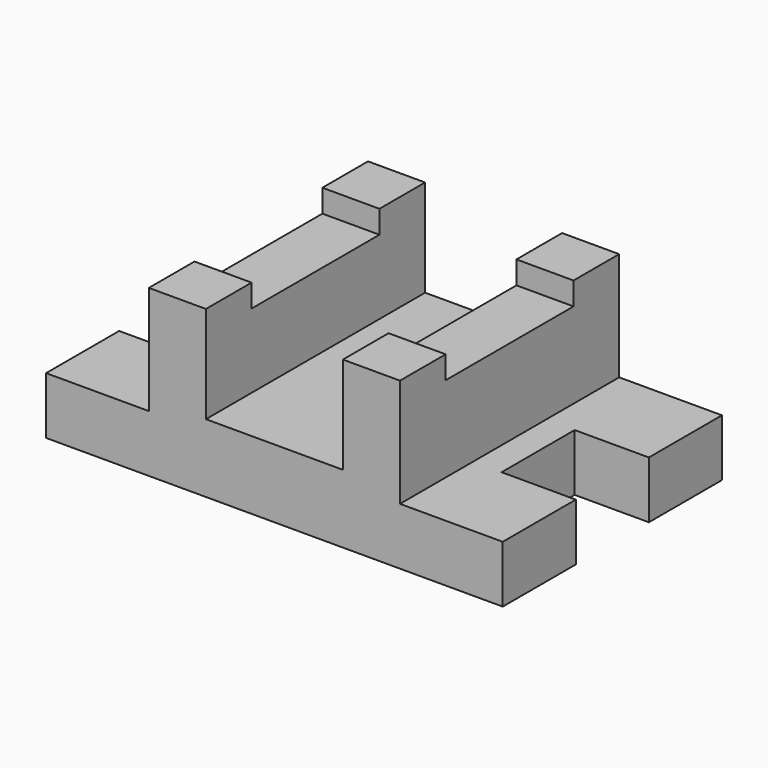
from build123d import *

# Parameters (mm, degrees)
F1_DEPTH = 31.75
F0_W     = 31.75
F0_H     = 31.75
F2_DEPTH = 92.075
F3_DEPTH = 38.1
F0_H_2   = 88.9
F4_DEPTH = 41.275
F5_DEPTH = 60.325
F6_DEPTH = 19.05


with BuildPart() as f1:
    # F0 (on Top) → F1 (new body)
    with BuildSketch(Plane.XY):
        Polygon((127, 76.2), (69.85, 76.2), (69.85, 44.45), (69.85, -44.45), (69.85, -76.2), (127, -76.2), (127, -25.4), (85.725, -25.4), (85.725, 25.4), (127, 25.4), align=None)
    extrude(amount=F1_DEPTH)

    # F0 (on Top) → F2 (join)
    with BuildSketch(Plane.XY):
        with Locations((53.975, -60.325)):
            Rectangle(F0_W, F0_H)
        with Locations((53.975, 60.325)):
            Rectangle(F0_W, F0_H)
    extrude(amount=F2_DEPTH)

    # F0 (on Top) → F3 (join)
    with BuildSketch(Plane.XY):
        with BuildLine():
            ThreePointArc((0, 15.875), (11.2253201513, 11.2253201513), (15.875, 0))
            ThreePointArc((15.875, 0), (11.2253201513, -11.2253201513), (0, -15.875))
            Line((0, -15.875), (0, -76.2))
            Line((0, -76.2), (38.1, -76.2))
            Line((38.1, -76.2), (38.1, -44.45))
            Line((38.1, -44.45), (38.1, 44.45))
            Line((38.1, 44.45), (38.1, 76.2))
            Line((38.1, 76.2), (0, 76.2))
            Line((0, 76.2), (0, 15.875))
        make_face()
    extrude(amount=F3_DEPTH)

    # F0 (on Top) → F4 (join)
    with BuildSketch(Plane.XY):
        with Locations((53.975, 0)):
            Rectangle(F0_W, F0_H_2)
    extrude(amount=F4_DEPTH)

    # F0 (on Top) → F5 (join)
    with BuildSketch(Plane.XY):
        with Locations((53.975, 0)):
            Rectangle(F0_W, F0_H_2)
    extrude(amount=F5_DEPTH)

    # F6 (add): a face of the model
    f6_faces = [f1.faces().sort_by_distance(p)[0] for p in [
        (53.975, 0, 60.325),
    ]]
    extrude(f6_faces, amount=F6_DEPTH)

    # F7: F1 across face


with BuildPart() as f1_1:
    add(f1.part)
    add(f1.part.mirror(Plane(origin=(0, -46.0375, 19.05), x_dir=(0, -1, 0), z_dir=(-1, 0, 0))))


solid = f1_1.part
